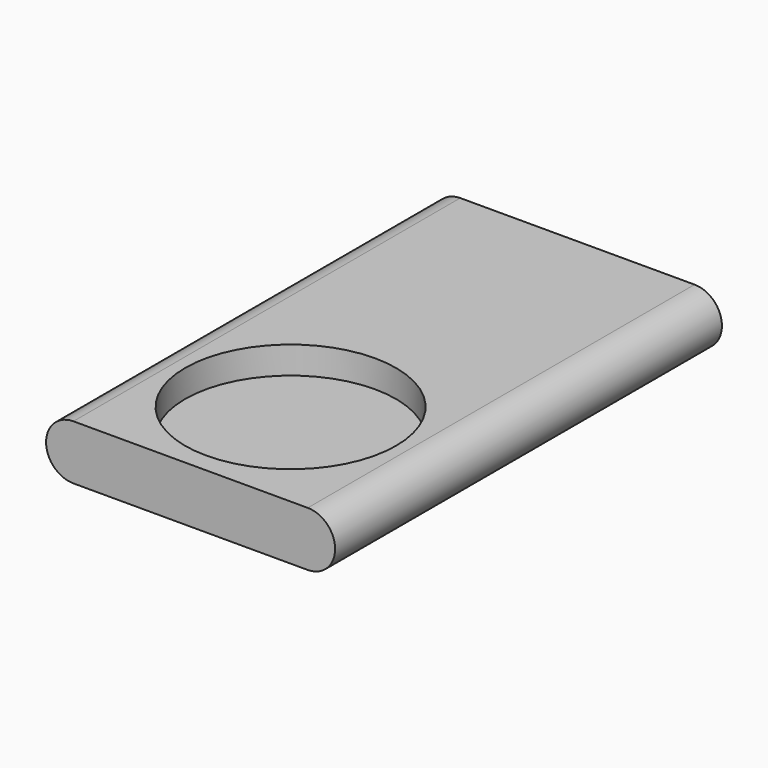
from build123d import *

# Parameters (mm, degrees)
F1_DEPTH = 61.9
F2_R     = 13.5
F3_DEPTH = 3.5


with BuildPart() as f1:
    # F0 (on Front) → F1 (new body)
    with BuildSketch(Plane.XZ):
        with BuildLine():
            ThreePointArc((0, 7), (-3.5, 3.5), (0, 0))
            Line((0, 0), (30, 0))
            ThreePointArc((30, 0), (33.5, 3.5), (30, 7))
            Line((30, 7), (0, 7))
        make_face()
    extrude(amount=F1_DEPTH)

    # F2 (on face) → F3 (cut)
    with BuildSketch(Plane.XY.offset(7)):
        with Locations((15, -45.9)):
            Circle(F2_R)
    extrude(amount=-F3_DEPTH, mode=Mode.SUBTRACT)


solid = f1.part
